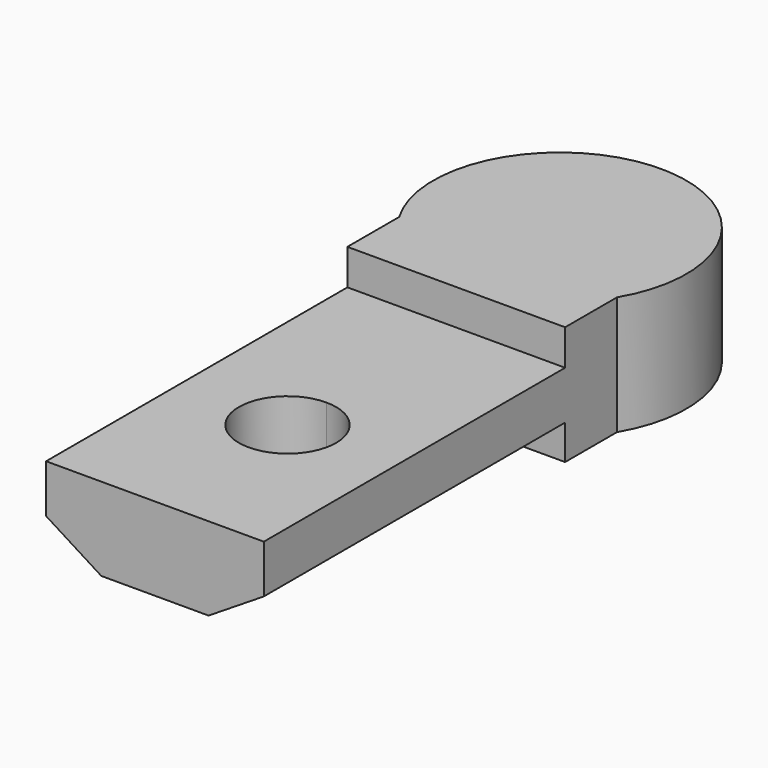
from build123d import *

# Parameters (mm, degrees)
F0_W     = 11.0125
F0_H     = 22.325812
F1_DEPTH = 6.0034
F3_DEPTH = 6.0034
F4_W     = 5.50625
F4_H     = 1.8034
F5_DEPTH = 19.05
F6_DEPTH = 19.05


with BuildPart() as f1:
    # F0 (on Top) → F1 (new body)
    with BuildSketch(Plane.XY):
        with Locations((0.79375, 0.028664)):
            Rectangle(F0_W, F0_H)
        with BuildLine():
            Line((-4.7125, 11.19157), (6.3, 11.19157))
            ThreePointArc((6.3, 11.19157), (0.79375, 20.865498), (-4.7125, 11.19157))
        make_face()
    extrude(amount=F1_DEPTH)

    # F2 (on face) → F3 (cut, through all)
    with BuildSketch(Plane.XY.offset(6.0034)):
        with BuildLine():
            ThreePointArc((0.79375, -0.294792), (-1.6637, -2.752242), (0.79375, -5.209692))
            Line((0.79375, -5.209692), (0.79375, -0.294792))
        make_face()
        with BuildLine():
            Line((0.79375, -0.294792), (0.79375, -5.209692))
            ThreePointArc((0.79375, -5.209692), (2.53143, -4.489922), (3.2512, -2.752242))
            ThreePointArc((3.2512, -2.752242), (2.53143, -1.014563), (0.79375, -0.294792))
        make_face()
    extrude(amount=-F3_DEPTH, mode=Mode.SUBTRACT)

    # F4 (on face) → F5 (cut)
    with BuildSketch(Plane.XZ.offset(11.134242)):
        Polygon((-1.9185, 0), (-4.7125, 1.76), (-4.7125, 0), align=None)
        Polygon((6.3, 0), (6.3, 1.76), (3.506, 0), align=None)
        with Locations((-1.959375, 5.1017)):
            Rectangle(F4_W, F4_H)
        with Locations((3.546875, 5.1017)):
            Rectangle(F4_W, F4_H)
    extrude(amount=-F5_DEPTH, mode=Mode.SUBTRACT)

    # F4 (on face) → F6 (cut)
    with BuildSketch(Plane.XZ.offset(11.134242)):
        Polygon((-1.9185, 0), (-4.7125, 1.76), (-4.7125, 0), align=None)
        Polygon((6.3, 0), (6.3, 1.76), (3.506, 0), align=None)
        with Locations((-1.959375, 5.1017)):
            Rectangle(F4_W, F4_H)
        with Locations((3.546875, 5.1017)):
            Rectangle(F4_W, F4_H)
    extrude(amount=-F6_DEPTH, mode=Mode.SUBTRACT)


solid = f1.part
